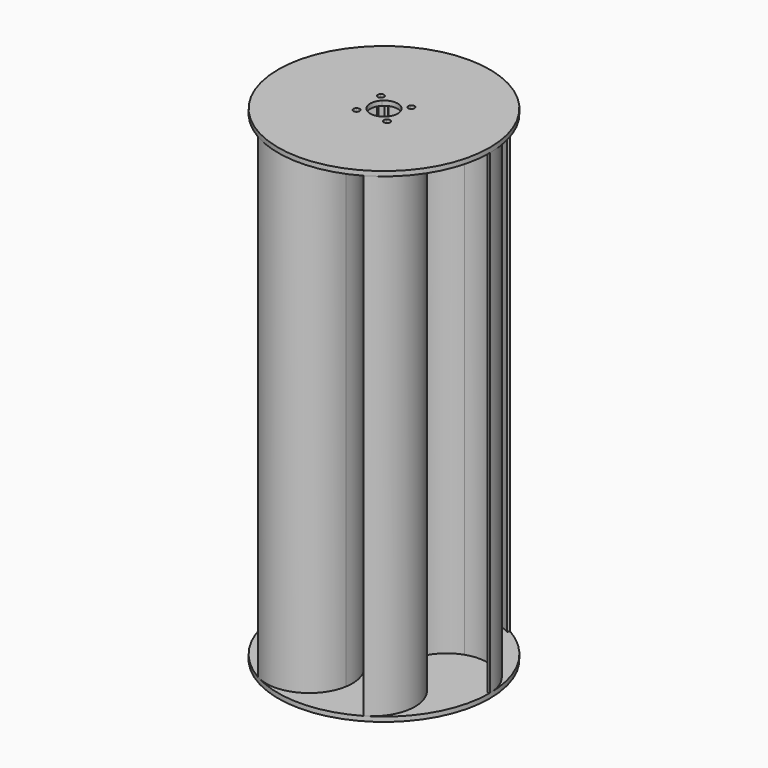
from build123d import *

# Parameters (mm, degrees)
F0_R     = 135
F1_DEPTH = 6
F3_DEPTH = 607
F4_R     = 135
F5_DEPTH = 6
F7_DEPTH = 619.001


with BuildPart() as f1:
    # F0 (on Top) → F1 (new body)
    with BuildSketch(Plane.XY):
        Circle(F0_R)
    extrude(amount=F1_DEPTH)

    # F2 (on face) → F3 (join)
    with BuildSketch(Plane.XY.offset(6)):
        with BuildLine():
            Line((-131.8, 0), (-135, 0))
            ThreePointArc((-135, 0), (-111.5052079028, -45.0823898546), (-61.09375, -51.6483660045))
            ThreePointArc((-61.09375, -51.6483660045), (-62.1757441157, -50.3406082965), (-63.22975, -49.0101899092))
            ThreePointArc((-63.22975, -49.0101899092), (-110.1209316755, -42.1422528468), (-131.8, 0))
        make_face()
        with BuildLine():
            ThreePointArc((-61.09375, -51.6483660045), (-34.9176101454, -31.5052079028), (-25, 0))
            Line((-25, 0), (-28.2, 0))
            ThreePointArc((-28.2, 0), (-37.8577471532, -30.1209316755), (-63.22975, -49.0101899092))
            ThreePointArc((-63.22975, -49.0101899092), (-62.1757441157, -50.3406082965), (-61.09375, -51.6483660045))
        make_face()
        with BuildLine():
            ThreePointArc((10.8291945057, -79.2636647295), (12.5083735689, -79.0160780516), (14.1819220239, -78.7329225147))
            ThreePointArc((14.1819220239, -78.7329225147), (9.8255053226, -45.9921413768), (-12.5, -21.6506350946))
            Line((-12.5, -21.6506350946), (-14.1, -24.4219163867))
            ThreePointArc((-14.1, -24.4219163867), (7.15661844, -47.8462366025), (10.8291945057, -79.2636647295))
        make_face()
        with BuildLine():
            Line((-65.9, -114.1421482188), (-67.5, -116.9134295109))
            ThreePointArc((-67.5, -116.9134295109), (-16.710109074, -119.1075376254), (14.1819220239, -78.7329225147))
            ThreePointArc((14.1819220239, -78.7329225147), (12.5083735689, -79.0160780516), (10.8291945057, -79.2636647295))
            ThreePointArc((10.8291945057, -79.2636647295), (-18.5642042998, -116.4386507428), (-65.9, -114.1421482188))
        make_face()
        with BuildLine():
            ThreePointArc((-75.2756720239, 27.0845565102), (-44.7431154681, 14.486933474), (-12.5, 21.6506350946))
            Line((-12.5, 21.6506350946), (-14.1, 24.4219163867))
            ThreePointArc((-14.1, 24.4219163867), (-45.0143655933, 17.725304927), (-74.0589445057, 30.2534748203))
            ThreePointArc((-74.0589445057, 30.2534748203), (-74.6841176846, 28.6754697551), (-75.2756720239, 27.0845565102))
        make_face()
        with BuildLine():
            Line((-65.9, 114.1421482188), (-67.5, 116.9134295109))
            ThreePointArc((-67.5, 116.9134295109), (-94.7950988288, 74.0251477708), (-75.2756720239, 27.0845565102))
            ThreePointArc((-75.2756720239, 27.0845565102), (-74.6841176846, 28.6754697551), (-74.0589445057, 30.2534748203))
            ThreePointArc((-74.0589445057, 30.2534748203), (-91.5567273757, 74.296397896), (-65.9, 114.1421482188))
        make_face()
        with BuildLine():
            Line((65.9, 114.1421482188), (67.5, 116.9134295109))
            ThreePointArc((67.5, 116.9134295109), (16.710109074, 119.1075376254), (-14.1819220239, 78.7329225147))
            ThreePointArc((-14.1819220239, 78.7329225147), (-12.5083735689, 79.0160780516), (-10.8291945057, 79.2636647295))
            ThreePointArc((-10.8291945057, 79.2636647295), (18.5642042998, 116.4386507428), (65.9, 114.1421482188))
        make_face()
        with BuildLine():
            ThreePointArc((14.1, 24.4219163867), (-7.15661844, 47.8462366025), (-10.8291945057, 79.2636647295))
            ThreePointArc((-10.8291945057, 79.2636647295), (-12.5083735689, 79.0160780516), (-14.1819220239, 78.7329225147))
            ThreePointArc((-14.1819220239, 78.7329225147), (-9.8255053226, 45.9921413768), (12.5, 21.6506350946))
            Line((12.5, 21.6506350946), (14.1, 24.4219163867))
        make_face()
        with BuildLine():
            ThreePointArc((28.2, 0), (37.8577471532, 30.1209316755), (63.22975, 49.0101899092))
            ThreePointArc((63.22975, 49.0101899092), (62.1757441157, 50.3406082965), (61.09375, 51.6483660045))
            ThreePointArc((61.09375, 51.6483660045), (34.9176101454, 31.5052079028), (25, 0))
            Line((25, 0), (28.2, 0))
        make_face()
        with BuildLine():
            ThreePointArc((74.0589445057, -30.2534748203), (74.6841176846, -28.6754697551), (75.2756720239, -27.0845565102))
            ThreePointArc((75.2756720239, -27.0845565102), (44.7431154681, -14.486933474), (12.5, -21.6506350946))
            Line((12.5, -21.6506350946), (14.1, -24.4219163867))
            ThreePointArc((14.1, -24.4219163867), (45.0143655933, -17.725304927), (74.0589445057, -30.2534748203))
        make_face()
        with BuildLine():
            ThreePointArc((67.5, -116.9134295109), (94.7950988288, -74.0251477708), (75.2756720239, -27.0845565102))
            ThreePointArc((75.2756720239, -27.0845565102), (74.6841176846, -28.6754697551), (74.0589445057, -30.2534748203))
            ThreePointArc((74.0589445057, -30.2534748203), (91.5567273757, -74.296397896), (65.9, -114.1421482188))
            Line((65.9, -114.1421482188), (67.5, -116.9134295109))
        make_face()
        with BuildLine():
            ThreePointArc((61.09375, 51.6483660045), (62.1757441157, 50.3406082965), (63.22975, 49.0101899092))
            ThreePointArc((63.22975, 49.0101899092), (110.1209316755, 42.1422528468), (131.8, 0))
            Line((131.8, 0), (135, 0))
            ThreePointArc((135, 0), (111.5052079028, 45.0823898546), (61.09375, 51.6483660045))
        make_face()
    extrude(amount=F3_DEPTH)

    # F4 (on face) → F5 (join)
    with BuildSketch(Plane.XY.offset(613)):
        Circle(F4_R)
    extrude(amount=F5_DEPTH)

    # F6 (on face) → F7 (cut, through all)
    with BuildSketch(Plane.XY.offset(619)):
        with BuildLine():
            Line((-22.2738636074, 22.2738636074), (-19.4454364826, 19.4454364826))
            ThreePointArc((-19.4454364826, 19.4454364826), (-17.9797287908, 20.8081559156), (-16.4187956222, 22.0606697613))
            ThreePointArc((-16.4187956222, 22.0606697613), (-19.2998855456, 23.4427874711), (-22.2738636074, 22.2738636074))
        make_face()
        with BuildLine():
            ThreePointArc((-22.0606697613, 16.4187956222), (-20.8081559156, 17.9797287908), (-19.4454364826, 19.4454364826))
            Line((-19.4454364826, 19.4454364826), (-22.2738636074, 22.2738636074))
            ThreePointArc((-22.2738636074, 22.2738636074), (-23.4427874711, 19.2998855456), (-22.0606697613, 16.4187956222))
        make_face()
        with BuildLine():
            ThreePointArc((-22.0606697613, 16.4187956222), (-19.2998855456, 15.4480854942), (-16.6170093579, 16.6170093579))
            Line((-16.6170093579, 16.6170093579), (-19.4454364826, 19.4454364826))
            ThreePointArc((-19.4454364826, 19.4454364826), (-20.8081559156, 17.9797287908), (-22.0606697613, 16.4187956222))
        make_face()
        with BuildLine():
            Line((-19.4454364826, 19.4454364826), (-16.6170093579, 16.6170093579))
            ThreePointArc((-16.6170093579, 16.6170093579), (-15.7499183526, 17.9147027532), (-15.4454364826, 19.4454364826))
            ThreePointArc((-15.4454364826, 19.4454364826), (-15.696665788, 20.8406849476), (-16.4187956222, 22.0606697613))
            ThreePointArc((-16.4187956222, 22.0606697613), (-17.9797287908, 20.8081559156), (-19.4454364826, 19.4454364826))
        make_face()
        with BuildLine():
            Line((0, 0), (-12.3743686708, 12.3743686708))
            ThreePointArc((-12.3743686708, 12.3743686708), (-17.5, 0), (-12.3743686708, -12.3743686708))
            Line((-12.3743686708, -12.3743686708), (0, 0))
        make_face()
        with BuildLine():
            ThreePointArc((-12.3743686708, -12.3743686708), (0, -17.5), (12.3743686708, -12.3743686708))
            Line((12.3743686708, -12.3743686708), (0, 0))
            Line((0, 0), (-12.3743686708, -12.3743686708))
        make_face()
        with BuildLine():
            ThreePointArc((12.3743686708, -12.3743686708), (16.1678918189, -6.6969600664), (17.5, 0))
            ThreePointArc((17.5, 0), (16.1678918189, 6.6969600664), (12.3743686708, 12.3743686708))
            Line((12.3743686708, 12.3743686708), (0, 0))
            Line((0, 0), (12.3743686708, -12.3743686708))
        make_face()
        with BuildLine():
            Line((0, 0), (12.3743686708, 12.3743686708))
            ThreePointArc((12.3743686708, 12.3743686708), (0, 17.5), (-12.3743686708, 12.3743686708))
            Line((-12.3743686708, 12.3743686708), (0, 0))
        make_face()
        with BuildLine():
            Line((22.2738636074, 22.2738636074), (19.4454364826, 19.4454364826))
            ThreePointArc((19.4454364826, 19.4454364826), (20.8081559156, 17.9797287908), (22.0606697613, 16.4187956222))
            ThreePointArc((22.0606697613, 16.4187956222), (23.082807313, 17.7812449544), (23.4454364826, 19.4454364826))
            ThreePointArc((23.4454364826, 19.4454364826), (23.1409546127, 20.9761702121), (22.2738636074, 22.2738636074))
        make_face()
        with BuildLine():
            ThreePointArc((16.4187956222, 22.0606697613), (17.9797287908, 20.8081559156), (19.4454364826, 19.4454364826))
            Line((19.4454364826, 19.4454364826), (22.2738636074, 22.2738636074))
            ThreePointArc((22.2738636074, 22.2738636074), (19.2998855456, 23.4427874711), (16.4187956222, 22.0606697613))
        make_face()
        with BuildLine():
            ThreePointArc((16.4187956222, 22.0606697613), (15.4480854942, 19.2998855456), (16.6170093579, 16.6170093579))
            Line((16.6170093579, 16.6170093579), (19.4454364826, 19.4454364826))
            ThreePointArc((19.4454364826, 19.4454364826), (17.9797287908, 20.8081559156), (16.4187956222, 22.0606697613))
        make_face()
        with BuildLine():
            Line((19.4454364826, 19.4454364826), (16.6170093579, 16.6170093579))
            ThreePointArc((16.6170093579, 16.6170093579), (19.2998855456, 15.4480854942), (22.0606697613, 16.4187956222))
            ThreePointArc((22.0606697613, 16.4187956222), (20.8081559156, 17.9797287908), (19.4454364826, 19.4454364826))
        make_face()
        with BuildLine():
            Line((22.2738636074, -22.2738636074), (19.4454364826, -19.4454364826))
            ThreePointArc((19.4454364826, -19.4454364826), (17.9797287908, -20.8081559156), (16.4187956222, -22.0606697613))
            ThreePointArc((16.4187956222, -22.0606697613), (19.2998855456, -23.4427874711), (22.2738636074, -22.2738636074))
        make_face()
        with BuildLine():
            ThreePointArc((22.0606697613, -16.4187956222), (20.8081559156, -17.9797287908), (19.4454364826, -19.4454364826))
            Line((19.4454364826, -19.4454364826), (22.2738636074, -22.2738636074))
            ThreePointArc((22.2738636074, -22.2738636074), (23.1409546127, -20.9761702121), (23.4454364826, -19.4454364826))
            ThreePointArc((23.4454364826, -19.4454364826), (23.082807313, -17.7812449544), (22.0606697613, -16.4187956222))
        make_face()
        with BuildLine():
            ThreePointArc((22.0606697613, -16.4187956222), (19.2998855456, -15.4480854942), (16.6170093579, -16.6170093579))
            Line((16.6170093579, -16.6170093579), (19.4454364826, -19.4454364826))
            ThreePointArc((19.4454364826, -19.4454364826), (20.8081559156, -17.9797287908), (22.0606697613, -16.4187956222))
        make_face()
        with BuildLine():
            Line((19.4454364826, -19.4454364826), (16.6170093579, -16.6170093579))
            ThreePointArc((16.6170093579, -16.6170093579), (15.4480854942, -19.2998855456), (16.4187956222, -22.0606697613))
            ThreePointArc((16.4187956222, -22.0606697613), (17.9797287908, -20.8081559156), (19.4454364826, -19.4454364826))
        make_face()
        with BuildLine():
            ThreePointArc((-16.4187956222, -22.0606697613), (-17.9797287908, -20.8081559156), (-19.4454364826, -19.4454364826))
            Line((-19.4454364826, -19.4454364826), (-22.2738636074, -22.2738636074))
            ThreePointArc((-22.2738636074, -22.2738636074), (-19.2998855456, -23.4427874711), (-16.4187956222, -22.0606697613))
        make_face()
        with BuildLine():
            Line((-22.2738636074, -22.2738636074), (-19.4454364826, -19.4454364826))
            ThreePointArc((-19.4454364826, -19.4454364826), (-20.8081559156, -17.9797287908), (-22.0606697613, -16.4187956222))
            ThreePointArc((-22.0606697613, -16.4187956222), (-23.4427874711, -19.2998855456), (-22.2738636074, -22.2738636074))
        make_face()
        with BuildLine():
            Line((-19.4454364826, -19.4454364826), (-16.6170093579, -16.6170093579))
            ThreePointArc((-16.6170093579, -16.6170093579), (-19.2998855456, -15.4480854942), (-22.0606697613, -16.4187956222))
            ThreePointArc((-22.0606697613, -16.4187956222), (-20.8081559156, -17.9797287908), (-19.4454364826, -19.4454364826))
        make_face()
        with BuildLine():
            ThreePointArc((-15.4454364826, -19.4454364826), (-15.7499183526, -17.9147027532), (-16.6170093579, -16.6170093579))
            Line((-16.6170093579, -16.6170093579), (-19.4454364826, -19.4454364826))
            ThreePointArc((-19.4454364826, -19.4454364826), (-17.9797287908, -20.8081559156), (-16.4187956222, -22.0606697613))
            ThreePointArc((-16.4187956222, -22.0606697613), (-15.696665788, -20.8406849476), (-15.4454364826, -19.4454364826))
        make_face()
    extrude(amount=-F7_DEPTH, mode=Mode.SUBTRACT)


solid = f1.part
